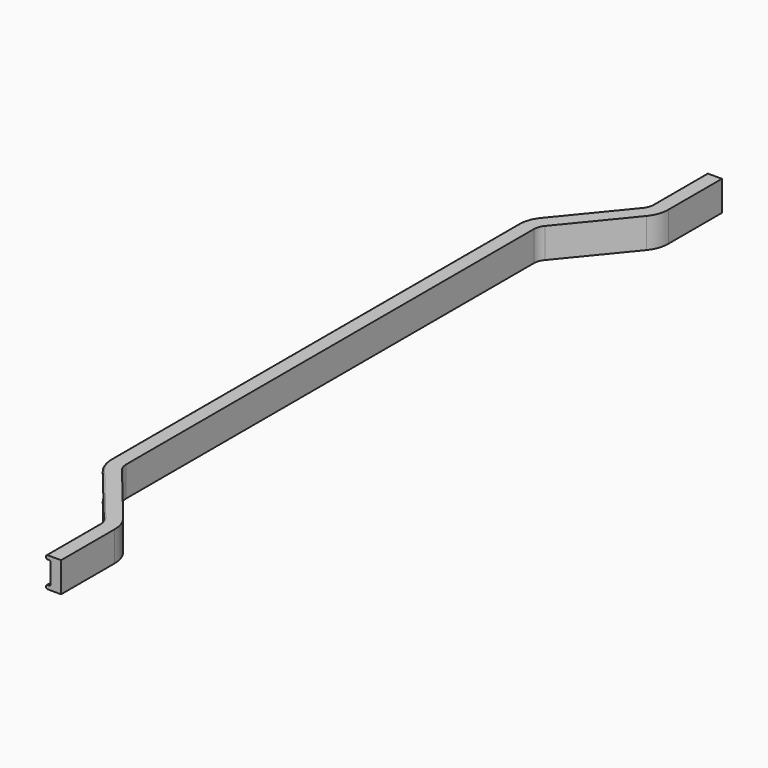
from build123d import *


with BuildPart() as f2:
    # F2: sweep along a path in F1
    with BuildLine(Plane.XY) as f2_path:
        Line((0, 0), (0, -89.280188))
        ThreePointArc((0, -89.280188), (-1.749391, -99.374895), (-6.793541, -108.292296))
        Line((-6.793541, -108.292296), (-75.132394, -191.707704))
        ThreePointArc((-75.132394, -191.707704), (-80.176544, -200.625105), (-81.925935, -210.719812))
        Line((-81.925935, -210.719812), (-81.925935, -550))
        Line((-81.925935, -550), (-81.925935, -889.280188))
        ThreePointArc((-81.925935, -889.280188), (-80.176544, -899.374895), (-75.132394, -908.292296))
        Line((-75.132394, -908.292296), (-6.793541, -991.707704))
        ThreePointArc((-6.793541, -991.707704), (-1.749391, -1000.625105), (0, -1010.719812))
        Line((0, -1010.719812), (0, -1100))
    # F0 (on Front) → F2 (sweep)
    with BuildSketch(Plane.XZ):
        with BuildLine():
            Line((10, 20), (-8, 20))
            ThreePointArc((-8, 20), (-9.414214, 19.414214), (-10, 18))
            Line((-10, 18), (-10, 17))
            ThreePointArc((-10, 17), (-9.414214, 15.585786), (-8, 15))
            Line((-8, 15), (-6, 15))
            ThreePointArc((-6, 15), (-4.585786, 14.414214), (-4, 13))
            Line((-4, 13), (-4, -13))
            ThreePointArc((-4, -13), (-4.585786, -14.414214), (-6, -15))
            Line((-6, -15), (-8, -15))
            ThreePointArc((-8, -15), (-9.414214, -15.585786), (-10, -17))
            Line((-10, -17), (-10, -18))
            ThreePointArc((-10, -18), (-9.414214, -19.414214), (-8, -20))
            Line((-8, -20), (10, -20))
            Line((10, -20), (10, 20))
        make_face()
    sweep(path=f2_path.line)


solid = f2.part
